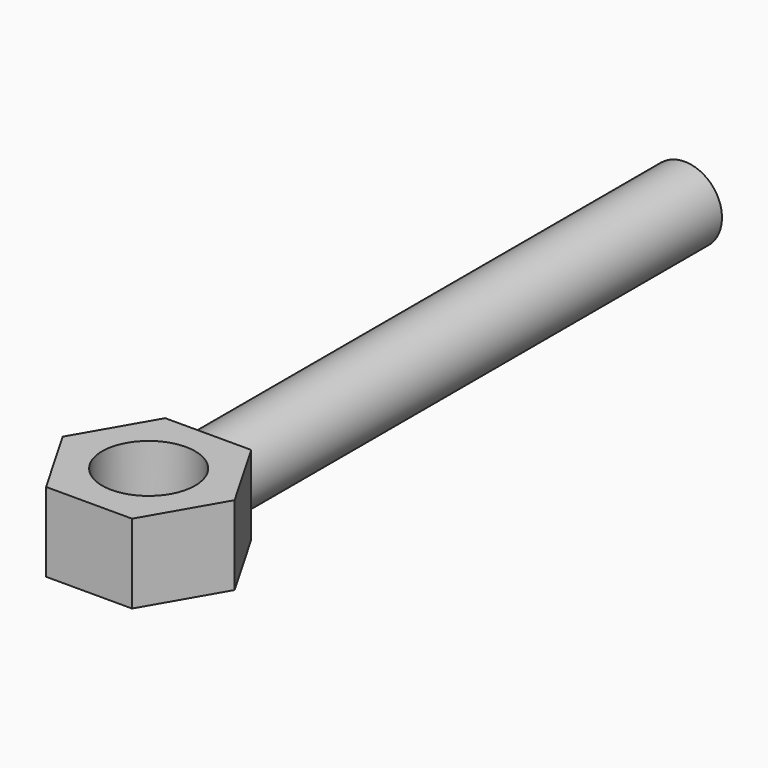
from build123d import *

# Parameters (mm, degrees)
F0_R     = 3.96875
F1_DEPTH = 6.746875
F2_R     = 3.175
F3_DEPTH = 50.8


with BuildPart() as f1:
    # F0 (on Top) → F1 (new body)
    with BuildSketch(Plane.XY):
        Polygon((3.666174, 6.35), (-3.666174, 6.35), (-7.332348, 0), (-3.666174, -6.35), (3.666174, -6.35), (7.332348, 0), align=None)
        Circle(F0_R, mode=Mode.SUBTRACT)
    extrude(amount=F1_DEPTH)

    # F2 (on face) → F3 (join)
    with BuildSketch(Plane(origin=(0, 6.35, 0), x_dir=(-1, 0, 0), z_dir=(0, 1, 0))):
        with Locations((0, 3.373438)):
            Circle(F2_R)
    extrude(amount=F3_DEPTH)


solid = f1.part
